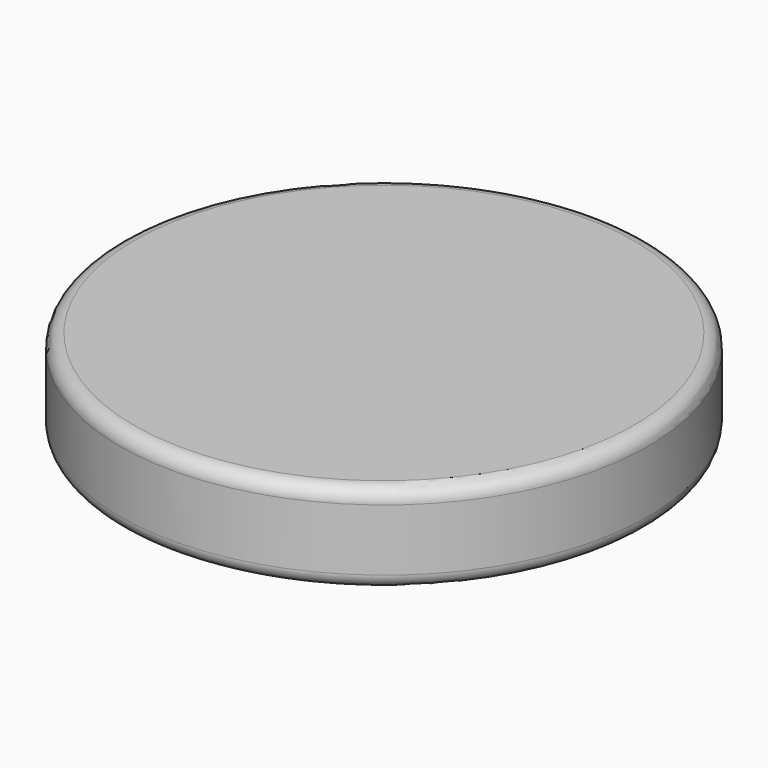
from build123d import *

# Parameters (mm, degrees)
F0_W = 238.76
F0_H = 81.28
F2_T = -30.48
F3_R = 12.7


with BuildPart() as f1:
    # F0 (on Front) → F1 (revolve)
    with BuildSketch(Plane.XZ):
        with Locations((-119.38, 40.64)):
            Rectangle(F0_W, F0_H)
    revolve(axis=Axis((0, 0, 40.64), (0, 0, -1)))

    # F2
    f2_openings = [f1.faces().sort_by_distance(p)[0] for p in [
        (0, 0, 0),
    ]]
    offset(amount=F2_T, openings=f2_openings)

    # F3
    f3_edges = [f1.edges().sort_by_distance(p)[0] for p in [
        (238.76, 0, 81.28),
        (238.76, 0, 0),
        (208.28, 0, 0),
    ]]
    fillet(f3_edges, radius=F3_R)


solid = f1.part
